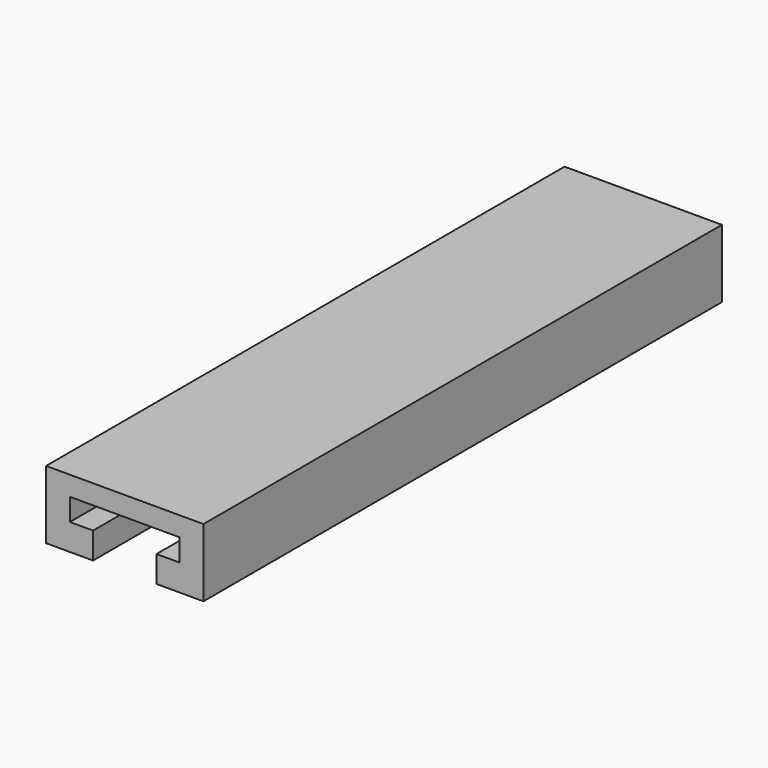
from build123d import *

# Parameters (mm, degrees)
F0_W     = 17
F0_H     = 7.35
F1_DEPTH = 70
F3_DEPTH = 50


with BuildPart() as f1:
    # F0 (on Front) → F1 (new body)
    with BuildSketch(Plane.XZ):
        Rectangle(F0_W, F0_H)
    extrude(amount=-F1_DEPTH)

    # F2 (on face) → F3 (cut)
    with BuildSketch(Plane.XZ):
        Polygon((-3.425, -0.825), (-3.425, -3.675), (3.425, -3.675), (3.425, -0.825), (5.93029, -0.825), (5.93029, 1.575), (-5.93029, 1.575), (-5.93029, -0.825), align=None)
    extrude(amount=-F3_DEPTH, mode=Mode.SUBTRACT)


solid = f1.part
